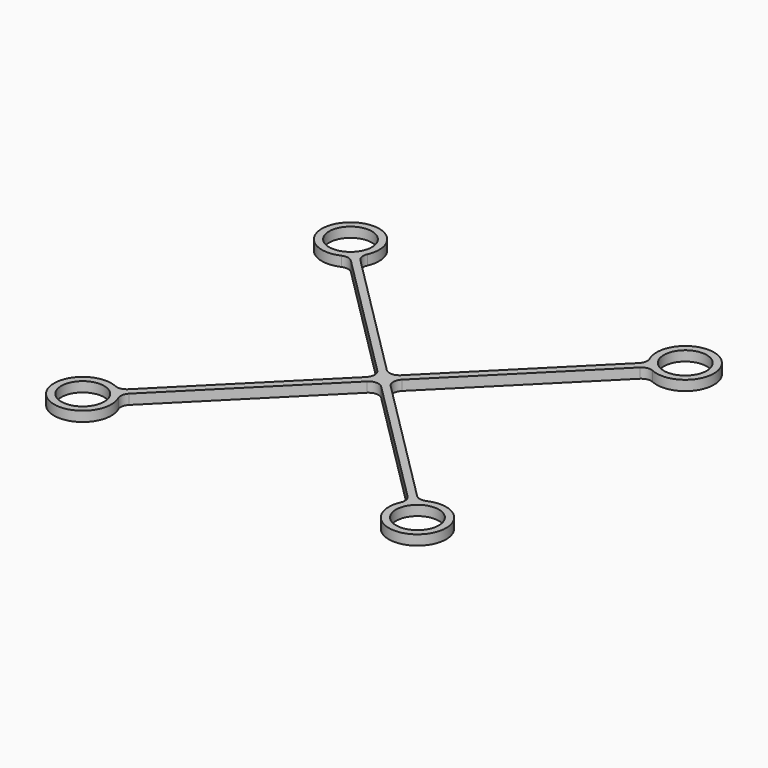
from build123d import *

# Parameters (mm, degrees)
F1_R     = 4.3
F2_DEPTH = 2
F3_R     = 2


with BuildPart() as f2:
    # F1 (on Top) → F2 (new body)
    with BuildSketch(Plane.XY):
        with BuildLine():
            Line((1.06066, 0), (30.086773, 29.026113))
            ThreePointArc((30.086773, 29.026113), (37.653436, 37.653436), (29.026113, 30.086773))
            Line((29.026113, 30.086773), (0, 1.06066))
            Line((0, 1.06066), (-29.026113, 30.086773))
            ThreePointArc((-29.026113, 30.086773), (-37.653436, 37.653436), (-30.086773, 29.026113))
            Line((-30.086773, 29.026113), (-1.06066, 0))
            Line((-1.06066, 0), (-30.086773, -29.026113))
            ThreePointArc((-30.086773, -29.026113), (-37.653436, -37.653436), (-29.026113, -30.086773))
            Line((-29.026113, -30.086773), (0, -1.06066))
            Line((0, -1.06066), (29.026113, -30.086773))
            ThreePointArc((29.026113, -30.086773), (37.653436, -37.653436), (30.086773, -29.026113))
            Line((30.086773, -29.026113), (1.06066, 0))
        make_face()
        with Locations((-33.587572, -33.587572)):
            Circle(F1_R, mode=Mode.SUBTRACT)
        with Locations((33.587572, -33.587572)):
            Circle(F1_R, mode=Mode.SUBTRACT)
        with Locations((-33.587572, 33.587572)):
            Circle(F1_R, mode=Mode.SUBTRACT)
        with Locations((33.587572, 33.587572)):
            Circle(F1_R, mode=Mode.SUBTRACT)
    extrude(amount=F2_DEPTH)

    # F3
    f3_edges = [f2.edges().sort_by_distance(p)[0] for p in [
        (30.086773, 29.026113, 1),
        (29.026113, 30.086773, 1),
        (1.06066, 0, 1),
        (0, -1.06066, 1),
        (-1.06066, 0, 1),
        (0, 1.06066, 1),
        (29.026113, -30.086773, 1),
        (30.086773, -29.026113, 1),
        (-30.086773, 29.026113, 1),
        (-29.026113, -30.086773, 1),
        (-29.026113, 30.086773, 1),
        (-30.086773, -29.026113, 1),
    ]]
    fillet(f3_edges, radius=F3_R)


solid = f2.part
